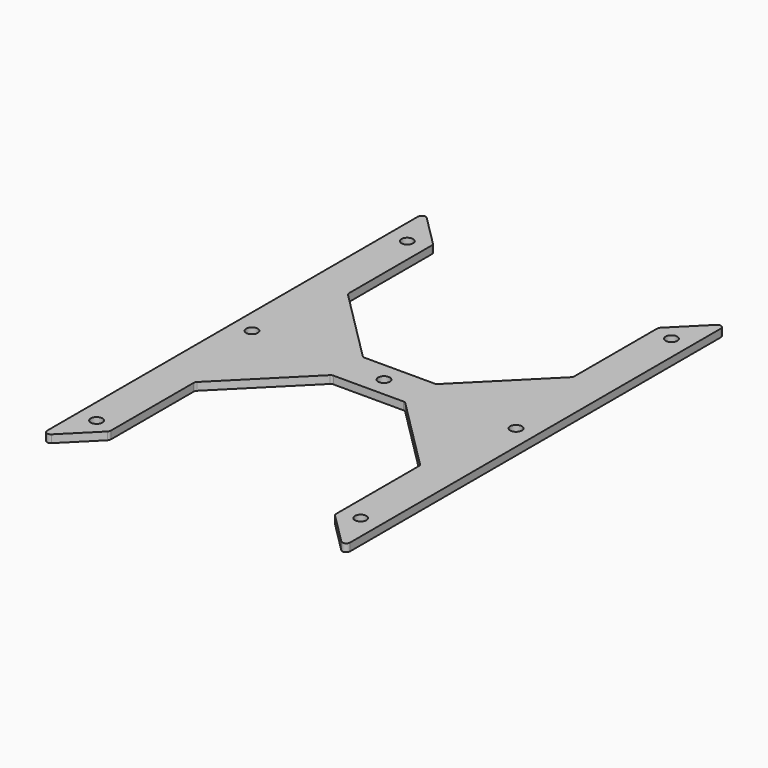
from build123d import *

# Parameters (mm, degrees)
SKETCH_R  = 3
PAD_DEPTH = 4


with BuildPart() as part:
    # Sketch → Pad (new body)
    with BuildSketch(Plane.XY):
        with BuildLine():
            Line((-78, 119.313708), (-78, -119.313708))
            ThreePointArc((-78, -119.313708), (-76.765367, -121.161468), (-74.585786, -120.727922))
            Line((-74.585786, -120.727922), (-58.585786, -104.727922))
            ThreePointArc((-58.585786, -104.727922), (-58.152241, -104.079075), (-58, -103.313708))
            Line((-58, -50), (-58, -103.313708))
            ThreePointArc((-57.414214, -48.585786), (-57.847759, -49.234633), (-58, -50))
            Line((-57.414214, -48.585786), (-19.414214, -10.585786))
            ThreePointArc((-18, -10), (-18.765367, -10.152241), (-19.414214, -10.585786))
            Line((-18, -10), (18, -10))
            ThreePointArc((19.414214, -10.585786), (18.765367, -10.152241), (18, -10))
            Line((19.414214, -10.585786), (57.414214, -48.585786))
            ThreePointArc((58, -50), (57.847759, -49.234633), (57.414214, -48.585786))
            Line((58, -50), (58, -103.313708))
            ThreePointArc((58, -103.313708), (58.152241, -104.079075), (58.585786, -104.727922))
            Line((58.585786, -104.727922), (74.585786, -120.727922))
            ThreePointArc((74.585786, -120.727922), (76.765367, -121.161468), (78, -119.313708))
            Line((78, -119.313708), (78, 119.313708))
            ThreePointArc((78, 119.313708), (76.765367, 121.161468), (74.585786, 120.727922))
            Line((58.585786, 104.727922), (74.585786, 120.727922))
            ThreePointArc((58.585786, 104.727922), (58.152241, 104.079075), (58, 103.313708))
            Line((58, 50), (58, 103.313708))
            ThreePointArc((57.414214, 48.585786), (57.847759, 49.234633), (58, 50))
            Line((19.414214, 10.585786), (57.414214, 48.585786))
            ThreePointArc((18, 10), (18.765367, 10.152241), (19.414214, 10.585786))
            Line((18, 10), (-18, 10))
            ThreePointArc((-19.414214, 10.585786), (-18.765367, 10.152241), (-18, 10))
            Line((-19.414214, 10.585786), (-57.414214, 48.585786))
            ThreePointArc((-58, 50), (-57.847759, 49.234633), (-57.414214, 48.585786))
            Line((-58, 50), (-58, 103.313708))
            ThreePointArc((-58, 103.313708), (-58.152241, 104.079075), (-58.585786, 104.727922))
            Line((-74.585786, 120.727922), (-58.585786, 104.727922))
            ThreePointArc((-74.585786, 120.727922), (-76.765367, 121.161468), (-78, 119.313708))
        make_face()
        with Locations((-68, 0)):
            Circle(SKETCH_R, mode=Mode.SUBTRACT)
        with Locations((68, 0)):
            Circle(SKETCH_R, mode=Mode.SUBTRACT)
        with Locations((-68, -100)):
            Circle(SKETCH_R, mode=Mode.SUBTRACT)
        with Locations((68, -100)):
            Circle(SKETCH_R, mode=Mode.SUBTRACT)
        Circle(SKETCH_R, mode=Mode.SUBTRACT)
        with Locations((-68, 100)):
            Circle(SKETCH_R, mode=Mode.SUBTRACT)
        with Locations((68, 100)):
            Circle(SKETCH_R, mode=Mode.SUBTRACT)
    extrude(amount=PAD_DEPTH)


solid = part.part
